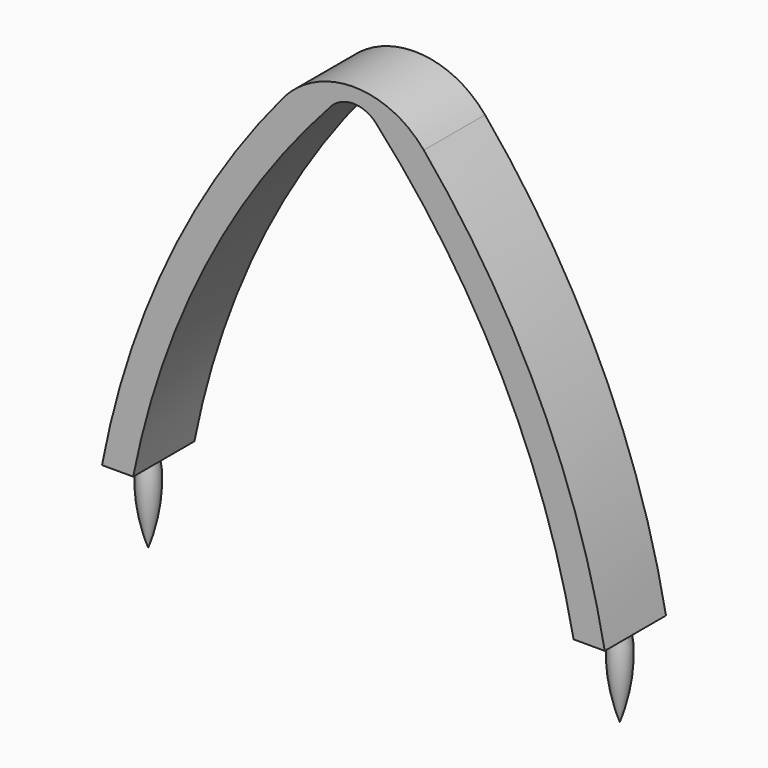
from build123d import *

# Parameters (mm, degrees)
F1_DEPTH = 12.7
F2_R     = 15.24
F3_R     = 5.08


with BuildPart() as f1:
    # F0 (on Front) → F1 (new body)
    with BuildSketch(Plane.XZ):
        with BuildLine():
            ThreePointArc((41.717369, 0.82729), (26.878905, 42.014486), (0, 76.570086))
            ThreePointArc((0, 76.570086), (-26.878905, 42.014486), (-41.717369, 0.82729))
            Line((-41.717369, 0.82729), (-36.542559, 0.82729))
            ThreePointArc((-36.542559, 0.82729), (-23.349687, 37.863578), (0, 69.494744))
            ThreePointArc((0, 69.494744), (23.349687, 37.863578), (36.542559, 0.82729))
            Line((36.542559, 0.82729), (41.717369, 0.82729))
        make_face()
    extrude(amount=F1_DEPTH)

    # F2
    f2_edges = [f1.edges().sort_by_distance(p)[0] for p in [
        (0, -6.35, 76.570086),
    ]]
    fillet(f2_edges, radius=F2_R)

    # F3
    f3_edges = [f1.edges().sort_by_distance(p)[0] for p in [
        (0, -6.35, 69.494744),
    ]]
    fillet(f3_edges, radius=F3_R)

    # F5 (on offset) → F6 (revolve)
    with BuildSketch(Plane.XZ.offset(6.35)):
        with BuildLine():
            Line((39.129964, 0.82729), (37.655077, 0.82729))
            add(Edge.make_bspline(
                [(37.655077, 0.82729), (36.695255, -4.188608), (37.93704, -9.83515), (39.129964, -12.974122)],
                knots=[0, 0, 0, 0, 13.879995, 13.879995, 13.879995, 13.879995], degree=3))
            Line((39.129964, -12.974122), (39.129964, 0.82729))
        make_face()
    revolve(axis=Axis((39.129964, -6.35, -6.073416), (0, 0, 1)))

    # F5 (on offset) → F7 (revolve)
    with BuildSketch(Plane.XZ.offset(6.35)):
        with BuildLine():
            Line((-39.129964, 0.82729), (-40.604852, 0.82729))
            add(Edge.make_bspline(
                [(-40.604852, 0.82729), (-41.564673, -4.188608), (-40.322889, -9.83515), (-39.129964, -12.974122)],
                knots=[0, 0, 0, 0, 13.879995, 13.879995, 13.879995, 13.879995], degree=3))
            Line((-39.129964, -12.974122), (-39.129964, 0.82729))
        make_face()
    revolve(axis=Axis((-39.129964, -6.35, -6.073416), (0, 0, 1)))


solid = f1.part
